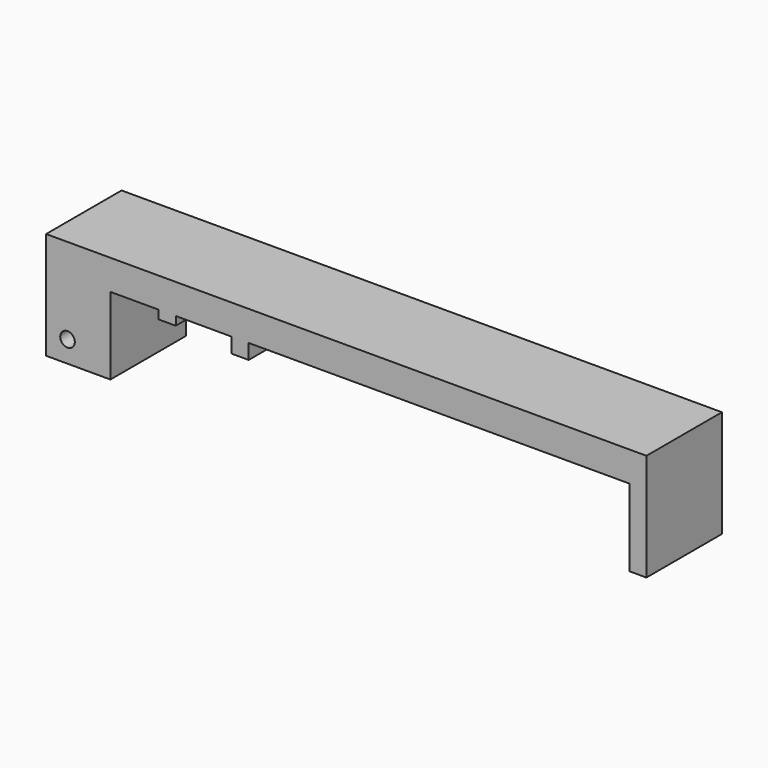
from build123d import *

# Parameters (mm, degrees)
SKETCH_W          = 140
SKETCH_H          = 25
SKETCH_R          = 1.7
PAD_DEPTH         = 11
SKETCH001_W       = 121
SKETCH001_H       = 18
POCKET_DEPTH      = 11.001
POCKET_DEPTH_BACK = 11.001
SKETCH002_W       = 4
SKETCH002_H       = 2
SKETCH002_H_2     = 3.5
PAD001_DEPTH      = 11


with BuildPart() as part:
    # Sketch → Pad (new body, symmetric)
    with BuildSketch(Plane.XZ):
        with Locations((65, 7.5)):
            Rectangle(SKETCH_W, SKETCH_H)
        Circle(SKETCH_R, mode=Mode.SUBTRACT)
    extrude(amount=PAD_DEPTH, both=True)

    # Sketch001 → Pocket (cut, two sides)
    with BuildSketch(Plane.XZ) as pocket_sk:
        with Locations((70.5, 4)):
            Rectangle(SKETCH001_W, SKETCH001_H)
    extrude(amount=-POCKET_DEPTH, mode=Mode.SUBTRACT)
    extrude(pocket_sk.sketch, amount=POCKET_DEPTH_BACK, mode=Mode.SUBTRACT)

    # Sketch002 → Pad001 (join, symmetric)
    with BuildSketch(Plane.XZ):
        with Locations((23.239084, 12)):
            Rectangle(SKETCH002_W, SKETCH002_H)
        with Locations((40.239084, 11.25)):
            Rectangle(SKETCH002_W, SKETCH002_H_2)
    extrude(amount=PAD001_DEPTH, both=True)


solid = part.part
